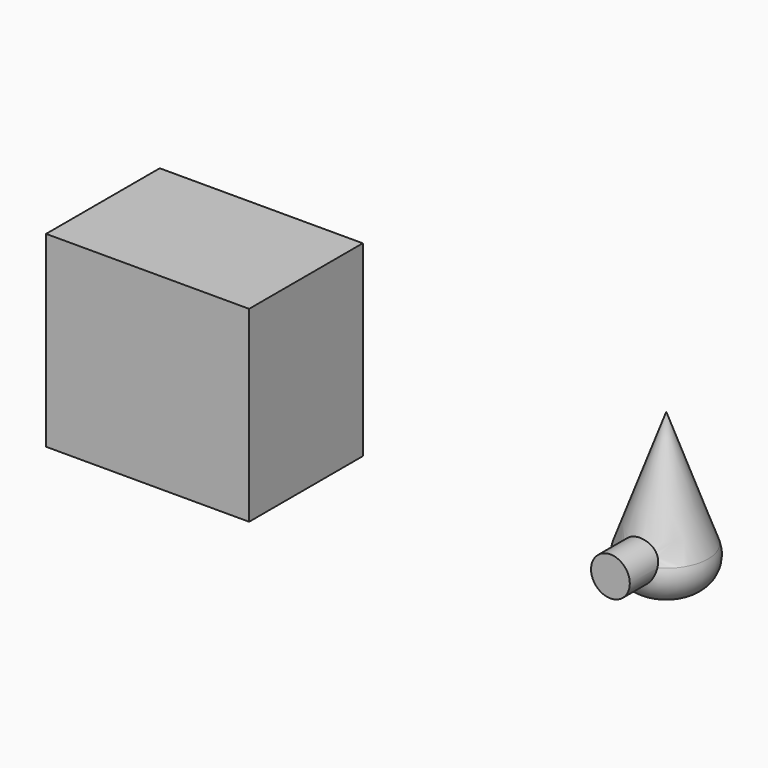
from build123d import *

# Parameters (mm, degrees)
F2_W     = 36.3068562001
F2_H     = 33.5211474448
F3_DEPTH = 25.4
F4_R     = 5.08
F5_R     = 3.4654105719
F6_DEPTH = 12.7


with BuildPart() as f1:
    # F0 (on Front) → F1 (revolve)
    with BuildSketch(Plane.XZ):
        Polygon((24.3025030941, 9.3273697421), (34.2288762331, 9.3273697421), (34.2288762331, 36.8816144764), align=None)
    revolve(axis=Axis((34.2288762331, 0, 23.1044921093), (0, 0, 1)))

    # F4
    f4_edges = [f1.edges().sort_by_distance(p)[0] for p in [
        (44.155249, 0, 9.32737),
    ]]
    fillet(f4_edges, radius=F4_R)

    # F5 (on Front) → F6 (join)
    with BuildSketch(Plane.XZ):
        with Locations((34.4000197947, 16.1731448025)):
            Circle(F5_R)
    extrude(amount=F6_DEPTH)


with BuildPart() as f3:
    # F2 (on Front) → F3 (new body)
    with BuildSketch(Plane.XZ):
        with Locations((-38.199015893, 28.9852423593)):
            Rectangle(F2_W, F2_H)
    extrude(amount=F3_DEPTH)


solid = Compound([f1.part, f3.part])
